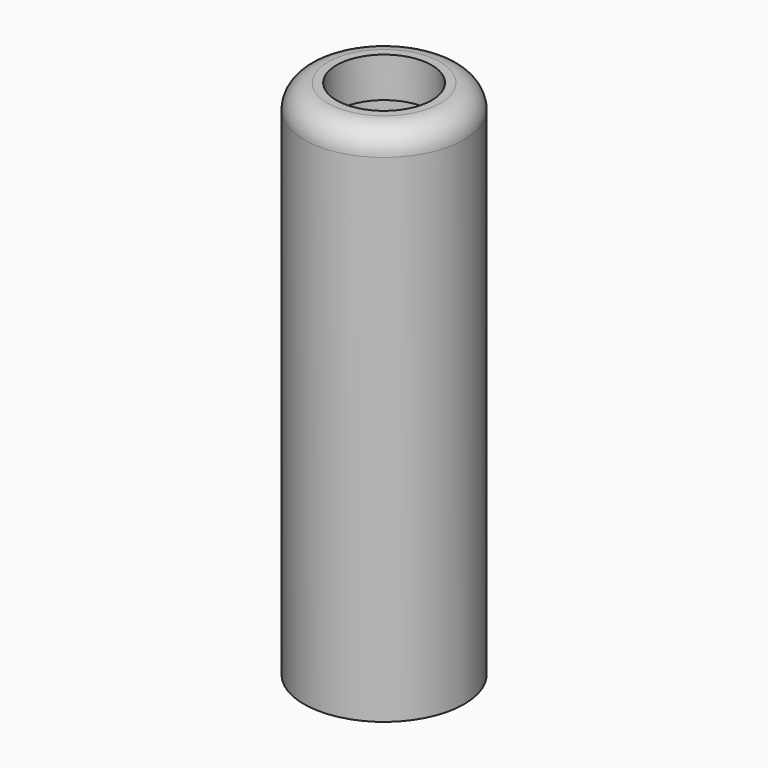
from build123d import *

# Parameters (mm, degrees)
F0_R     = 6.35
F1_DEPTH = 41.275
F2_R     = 4.953
F3_DEPTH = 38.1
F5_R     = 3.7719
F6_DEPTH = 3.175
F7_R     = 1.905


with BuildPart() as f1:
    # F0 (on Top) → F1 (new body)
    with BuildSketch(Plane.XY):
        Circle(F0_R)
    extrude(amount=F1_DEPTH)

    # F2 (on Top) → F3 (cut)
    with BuildSketch(Plane.XY):
        Circle(F2_R)
    extrude(amount=F3_DEPTH, mode=Mode.SUBTRACT)

    # F5 (on offset) → F6 (cut, through all)
    with BuildSketch(Plane.XY.offset(41.275)):
        Circle(F5_R)
    extrude(amount=-F6_DEPTH, mode=Mode.SUBTRACT)

    # F7
    f7_edges = [f1.edges().sort_by_distance(p)[0] for p in [
        (-6.35, 0, 41.275),
    ]]
    fillet(f7_edges, radius=F7_R)


solid = f1.part
